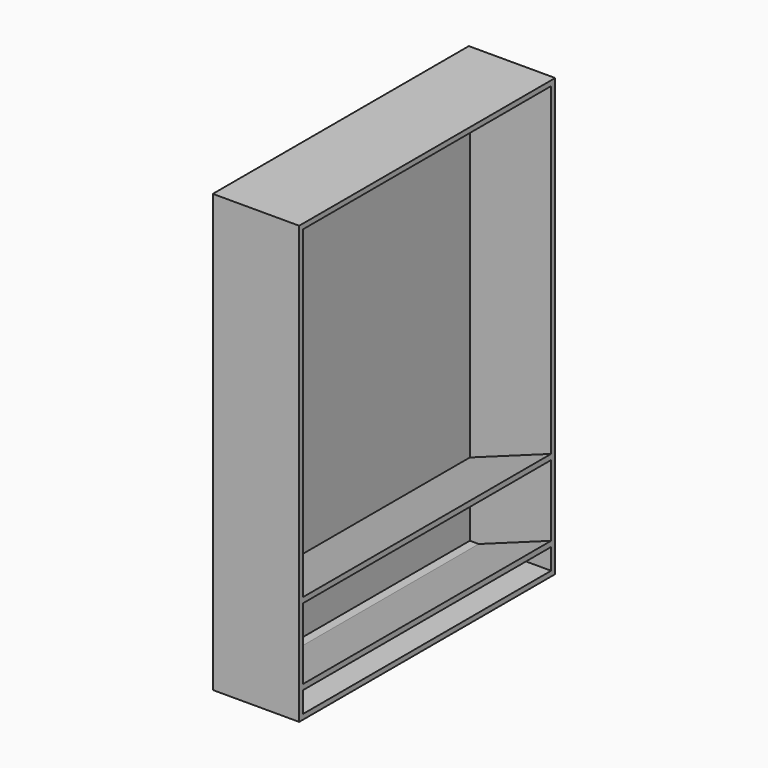
from build123d import *

# Parameters (mm, degrees)
F0_W      = 107.95
F0_H      = 400.05
F1_DEPTH  = 6.35
F2_W      = 107.95
F2_H      = 6.35
F3_DEPTH  = 533.4
F4_W      = 6.35
F4_H      = 387.35
F5_DEPTH  = 533.4
F6_W      = 107.95
F6_H      = 400.05
F7_DEPTH  = 6.35
F9_DEPTH  = 387.35
F11_DEPTH = 387.35


with BuildPart() as f1:
    # F0 (on Top) → F1 (new body)
    with BuildSketch(Plane.XY):
        with Locations((53.975, 200.025)):
            Rectangle(F0_W, F0_H)
    extrude(amount=F1_DEPTH)

    # F2 (on face) → F3 (join)
    with BuildSketch(Plane.XY.offset(6.35)):
        with Locations((53.975, 3.175)):
            Rectangle(F2_W, F2_H)
        with Locations((53.975, 396.875)):
            Rectangle(F2_W, F2_H)
    extrude(amount=F3_DEPTH)

    # F4 (on face) → F5 (join)
    with BuildSketch(Plane.XY.offset(6.35)):
        with Locations((3.175, 200.025)):
            Rectangle(F4_W, F4_H)
    extrude(amount=F5_DEPTH)

    # F6 (on face) → F7 (join)
    with BuildSketch(Plane.XY.offset(539.75)):
        with Locations((53.975, 200.025)):
            Rectangle(F6_W, F6_H)
    extrude(amount=F7_DEPTH)

    # F8 (on face) → F9 (join)
    with BuildSketch(Plane(origin=(0, 6.35, 0), x_dir=(-1, 0, 0), z_dir=(0, 1, 0))):
        Polygon((-18.566158, 0), (0, 0), (-107.95, 39.290587), (-107.95, 32.533058), align=None)
    extrude(amount=F9_DEPTH)

    # F10 (on face) → F11 (join)
    with BuildSketch(Plane(origin=(0, 6.35, 0), x_dir=(-1, 0, 0), z_dir=(0, 1, 0))):
        Polygon((-107.95, 134.948116), (-107.95, 128.190587), (-6.35, 91.211211), (-6.35, 97.96874), align=None)
    extrude(amount=F11_DEPTH)


solid = f1.part
